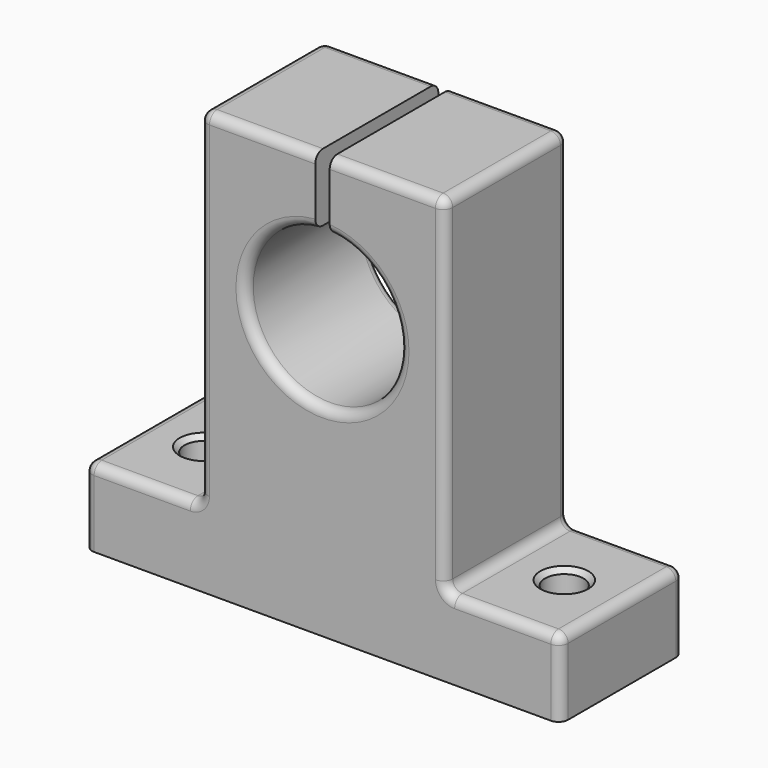
from build123d import *

# Parameters (mm, degrees)
F2_DEPTH       = 16
F4_D           = 4
F4_CSINK_D     = 5
F4_CSINK_ANGLE = 90
F5_R           = 1


with BuildPart() as f2:
    # F1 (on Front) → F2 (new body)
    with BuildSketch(Plane.XZ):
        with BuildLine():
            Line((-24.75, -11.0329669204), (24.75, -11.0329669204))
            Line((24.75, -11.0329669204), (24.75, -3.0329669204))
            Line((24.75, -3.0329669204), (12.75, -3.0329669204))
            Line((12.75, -3.0329669204), (12.75, 32.9670330796))
            Line((12.75, 32.9670330796), (0.75, 32.9670330796))
            Line((0.75, 32.9670330796), (0.75, 25.9317992406))
            ThreePointArc((0.75, 25.9317992406), (0, 9.9670330796), (-0.75, 25.9317992406))
            Line((-0.75, 25.9317992406), (-0.75, 32.9670330796))
            Line((-0.75, 32.9670330796), (-12.75, 32.9670330796))
            Line((-12.75, 32.9670330796), (-12.75, -3.0329669204))
            Line((-12.75, -3.0329669204), (-24.75, -3.0329669204))
            Line((-24.75, -3.0329669204), (-24.75, -11.0329669204))
        make_face()
    extrude(amount=F2_DEPTH)

    # F4 (through all)
    with Locations(Plane.XY.offset(-3.0329669204)):
        with Locations((-18.75, -8), (18.75, -8)):
            CounterSinkHole(F4_D / 2, F4_CSINK_D / 2, counter_sink_angle=F4_CSINK_ANGLE)

    # F5
    f5_edges = [f2.edges().sort_by_distance(p)[0] for p in [
        (-12.75, -16, 14.967033),
        (-6.75, -16, 32.967033),
        (6.75, -16, 32.967033),
        (12.75, -16, 14.967033),
        (18.75, -16, -3.032967),
        (24.75, -16, -7.032967),
        (24.75, -8, -3.032967),
        (24.75, 0, -7.032967),
        (18.75, 0, -3.032967),
        (12.75, -8, -3.032967),
        (12.75, 0, 14.967033),
        (12.75, -8, 32.967033),
        (6.75, 0, 32.967033),
        (-6.75, 0, 32.967033),
        (-12.75, -8, 32.967033),
        (-18.75, -16, -3.032967),
        (-24.75, -16, -7.032967),
        (-24.75, -8, -3.032967),
        (0, -16, 9.967033),
        (-12.75, 0, 14.967033),
        (0, 0, 9.967033),
        (-12.75, -8, -3.032967),
        (-18.75, 0, -3.032967),
        (-24.75, 0, -7.032967),
    ]]
    fillet(f5_edges, radius=F5_R)


solid = f2.part
